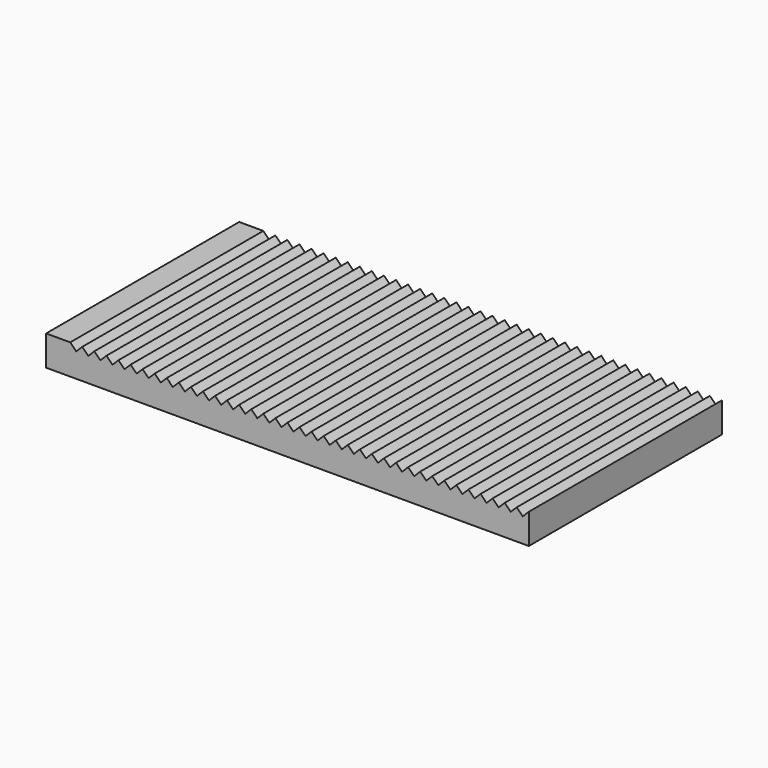
from build123d import *

# Parameters (mm, degrees)
F1_DEPTH = 25.4


with BuildPart() as f1:
    # F0 (on Front) → F1 (new body)
    with BuildSketch(Plane.XZ):
        Polygon((0, 3.175), (0, 0), (50.8, 0), (50.8, 3.175), (50.165, 2.54), (49.53, 3.175), (48.895, 2.54), (48.26, 3.175), (47.625, 2.54), (46.99, 3.175), (46.355, 2.54), (45.72, 3.175), (45.085, 2.54), (44.45, 3.175), (43.815, 2.54), (43.18, 3.175), (42.545, 2.54), (41.91, 3.175), (41.275, 2.54), (40.64, 3.175), (40.005, 2.54), (39.37, 3.175), (38.735, 2.54), (38.1, 3.175), (37.465, 2.54), (36.83, 3.175), (36.195, 2.54), (35.56, 3.175), (34.925, 2.54), (34.29, 3.175), (33.655, 2.54), (33.02, 3.175), (32.385, 2.54), (31.75, 3.175), (31.115, 2.54), (30.48, 3.175), (29.845, 2.54), (29.21, 3.175), (28.575, 2.54), (27.94, 3.175), (27.305, 2.54), (26.67, 3.175), (26.035, 2.54), (25.4, 3.175), (24.765, 2.54), (24.13, 3.175), (23.495, 2.54), (22.86, 3.175), (22.225, 2.54), (21.59, 3.175), (20.955, 2.54), (20.32, 3.175), (19.685, 2.54), (19.05, 3.175), (18.415, 2.54), (17.78, 3.175), (17.145, 2.54), (16.51, 3.175), (15.875, 2.54), (15.24, 3.175), (14.605, 2.54), (13.97, 3.175), (13.335, 2.54), (12.7, 3.175), (12.065, 2.54), (11.43, 3.175), (10.795, 2.54), (10.16, 3.175), (9.525, 2.54), (8.89, 3.175), (8.255, 2.54), (7.62, 3.175), (6.985, 2.54), (6.35, 3.175), (5.715, 2.54), (5.08, 3.175), (4.445, 2.54), (3.81, 3.175), (3.175, 2.54), (2.54, 3.175), align=None)
    extrude(amount=F1_DEPTH)


solid = f1.part
